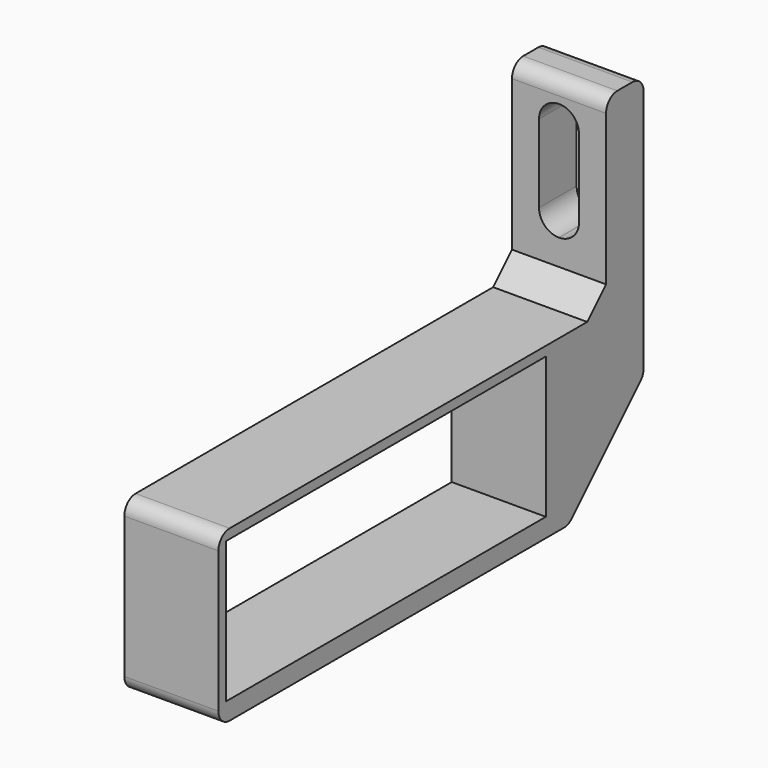
from build123d import *

# Parameters (mm, degrees)
SKETCH011_W     = 20
SKETCH011_H     = 36
PAD004_DEPTH    = 25
SKETCH015_W     = 20
SKETCH015_H     = 10
PAD008_DEPTH    = 40
POCKET004_DEPTH = 10.001
SKETCH023_W     = 36
SKETCH023_H     = 88
SKETCH023_W_2   = 30
SKETCH023_H_2   = 85
PAD012_DEPTH    = 20
CHAMFER_SIZE    = 5
CHAMFER001_SIZE = 20
FILLET_R        = 3


with BuildPart() as part:
    # Sketch011 → Pad004 (new body)
    with BuildSketch(Plane(origin=(290, 240, 0), x_dir=(1, 0, 0), z_dir=(0, -1, 0))):
        with Locations((10, 15)):
            Rectangle(SKETCH011_W, SKETCH011_H)
    extrude(amount=-PAD004_DEPTH)

    # Sketch015 → Pad008 (join)
    with BuildSketch(Plane(origin=(0, 0, 33), x_dir=(-1, 0, 0), z_dir=(0, 0, 1))):
        with Locations((-300, -260)):
            Rectangle(SKETCH015_W, SKETCH015_H)
    extrude(amount=PAD008_DEPTH)

    # Sketch016 (on Face4 of Pad008) → Pocket004 (cut, through all)
    with BuildSketch(Plane.XZ.offset(-255)):
        with BuildLine():
            Line((299.941929, 43.5), (300.058071, 43.5))
            ThreePointArc((300.058071, 43.5), (303.022212, 44.727788), (304.25, 47.691929))
            Line((304.25, 47.691929), (304.25, 64.308071))
            ThreePointArc((304.25, 64.308071), (303.022212, 67.272212), (300.058071, 68.5))
            Line((300.058071, 68.5), (299.941929, 68.5))
            ThreePointArc((299.941929, 68.5), (296.977788, 67.272212), (295.75, 64.308071))
            Line((295.75, 64.308071), (295.75, 47.691929))
            ThreePointArc((295.75, 47.691929), (296.977788, 44.727788), (299.941929, 43.5))
        make_face()
    extrude(amount=-POCKET004_DEPTH, mode=Mode.SUBTRACT)

    # Sketch023 (on Face3 of Pocket004) → Pad012 (join)
    with BuildSketch(Plane(origin=(310, 0, 0), x_dir=(0, 0, 1), z_dir=(1, 0, 0))):
        with Locations((15, -196)):
            Rectangle(SKETCH023_W, SKETCH023_H)
        with Locations((16, -196.5)):
            Rectangle(SKETCH023_W_2, SKETCH023_H_2, mode=Mode.SUBTRACT)
    extrude(amount=-PAD012_DEPTH)

    # Chamfer
    chamfer_edges = [part.edges().sort_by_distance(p)[0] for p in [
        (300, 255, 33),
    ]]
    chamfer(chamfer_edges, length=CHAMFER_SIZE)

    # Chamfer001
    chamfer001_edges = [part.edges().sort_by_distance(p)[0] for p in [
        (300, 265, -3),
    ]]
    chamfer(chamfer001_edges, length=CHAMFER001_SIZE)

    # Fillet
    fillet_edges = [part.edges().sort_by_distance(p)[0] for p in [
        (300, 265, 73),
        (300, 255, 73),
        (300, 152, 33),
        (300, 152, -3),
        (300, 265, 17),
        (300, 245, -3),
    ]]
    fillet(fillet_edges, radius=FILLET_R)


with BuildPart() as part_1:
    # Body004 placement: moved
    add(part.part.moved(Location((0, 1, -1))))


solid = part_1.part
